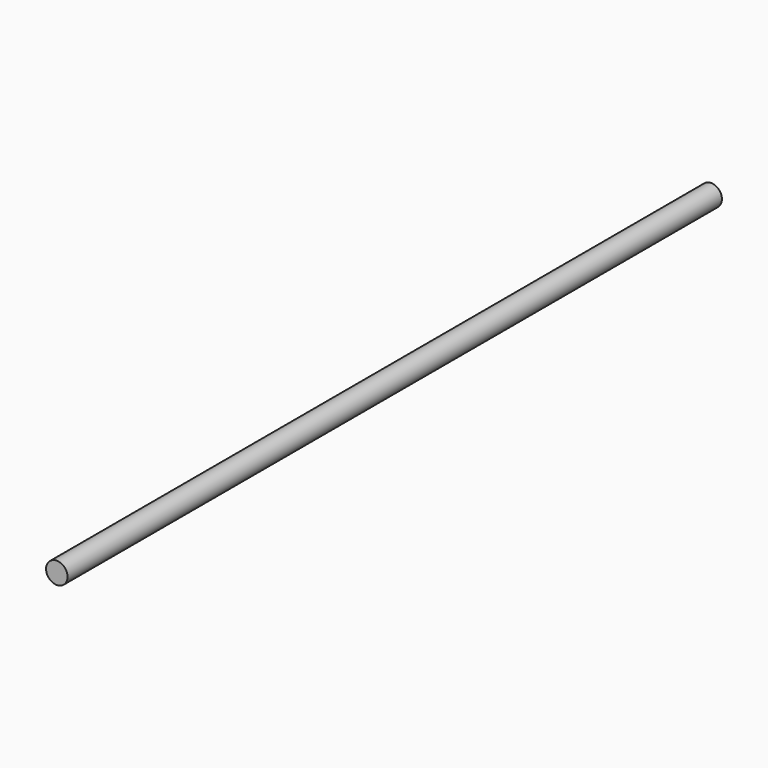
from build123d import *

# Parameters (mm, degrees)
SKETCH_R  = 4
PAD_DEPTH = 305


with BuildPart() as part:
    # Sketch → Pad (new body)
    with BuildSketch(Plane.XZ):
        Circle(SKETCH_R)
    extrude(amount=PAD_DEPTH)


solid = part.part
